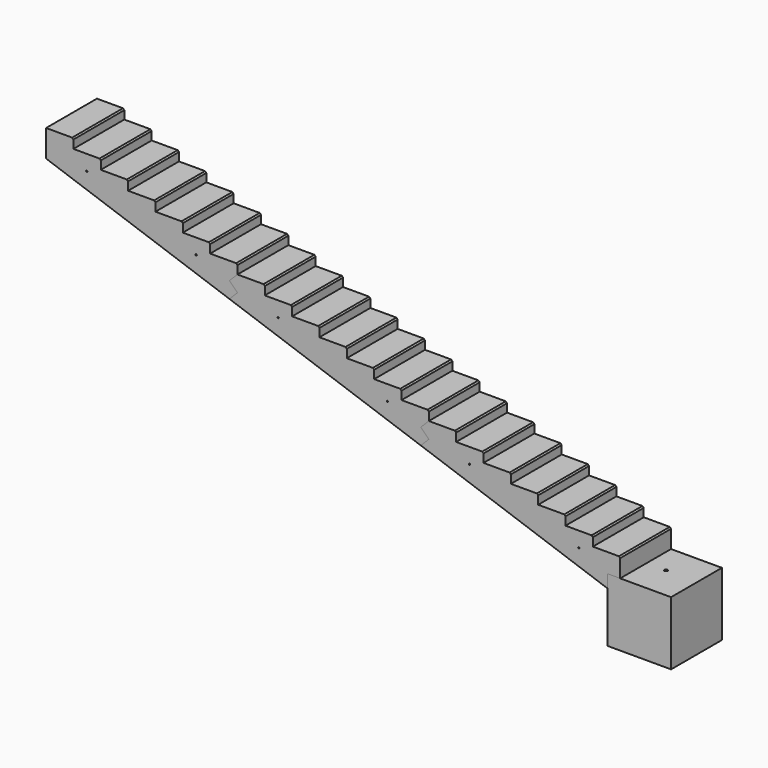
from build123d import *

# Parameters (mm, degrees)
SKETCH001_R  = 10.5
PAD_DEPTH    = 1000
SKETCH002_R  = 10.5
PAD001_DEPTH = 1000
SKETCH003_R  = 10.5
PAD002_DEPTH = 1000
SKETCH004_W  = 1000
SKETCH004_H  = 1000
PAD003_DEPTH = 1000
SKETCH005_R  = 25
POCKET_DEPTH = 50


with BuildPart() as topsection:
    # Sketch001 → Pad (new body)
    with BuildSketch(Plane.XZ):
        Polygon((0, 3000), (410, 3000), (430, 2980), (430, 2850), (840, 2850), (860, 2830), (860, 2700), (1270, 2700), (1290, 2680), (1290, 2550), (1700, 2550), (1720, 2530), (1720, 2400), (2130, 2400), (2150, 2380), (2150, 2250), (2560, 2250), (2580, 2230), (2580, 2100), (2990, 2100), (3010, 2080), (3010, 1950), (2883.496694, 1823.496694), (3010, 1696.993388), (2883.496694, 1570.490082), (0, 2576.361022), align=None)
        with Locations((640, 2610)):
            Circle(SKETCH001_R, mode=Mode.SUBTRACT)
        with Locations((2360, 2010)):
            Circle(SKETCH001_R, mode=Mode.SUBTRACT)
    extrude(amount=PAD_DEPTH)


with BuildPart() as middlesection:
    # Sketch002 → Pad001 (new body)
    with BuildSketch(Plane.XZ):
        Polygon((3010, 1950), (3420, 1950), (3440, 1930), (3440, 1800), (3850, 1800), (3870, 1780), (3870, 1650), (4280, 1650), (4300, 1630), (4300, 1500), (4710, 1500), (4730, 1480), (4730, 1350), (5140, 1350), (5160, 1330), (5160, 1200), (5570, 1200), (5590, 1180), (5590, 1050), (6000, 1050), (6020, 1030), (6020, 900), (5893.496694, 773.496694), (6020, 646.993388), (5893.496694, 520.490082), (2883.496694, 1570.490082), (3010, 1696.993388), (2883.496694, 1823.496694), align=None)
        with Locations((3650, 1560)):
            Circle(SKETCH002_R, mode=Mode.SUBTRACT)
        with Locations((5370, 960)):
            Circle(SKETCH002_R, mode=Mode.SUBTRACT)
    extrude(amount=PAD001_DEPTH)


with BuildPart() as bottomsection:
    # Sketch003 → Pad002 (new body)
    with BuildSketch(Plane.XZ):
        Polygon((6020, 900), (6430, 900), (6450, 880), (6450, 750), (6860, 750), (6880, 730), (6880, 600), (7290, 600), (7310, 580), (7310, 450), (7720, 450), (7740, 430), (7740, 300), (8150, 300), (8170, 280), (8170, 150), (8580, 150), (8600, 130), (8600, 0), (9010, 0), (9030, -20), (9030, -300), (8830, -300), (8830, -503.871536), (5893.496694, 520.490082), (6020, 646.993388), (5893.496694, 773.496694), align=None)
        with Locations((8380, -90)):
            Circle(SKETCH003_R, mode=Mode.SUBTRACT)
        with Locations((6660, 510)):
            Circle(SKETCH003_R, mode=Mode.SUBTRACT)
    extrude(amount=PAD002_DEPTH)


with BuildPart() as socketsection:
    # Sketch004 → Pad003 (new body)
    with BuildSketch(Plane.XZ):
        with Locations((9330, -800)):
            Rectangle(SKETCH004_W, SKETCH004_H)
    extrude(amount=PAD003_DEPTH)

    # Sketch005 (on DatumPlane) → Pocket (cut)
    with BuildSketch(Plane(origin=(0, 0, -300), x_dir=(-1, 0, 0), z_dir=(0, 0, 1))):
        with Locations((-9335.283547, 481.193332)):
            Circle(SKETCH005_R)
    extrude(amount=-POCKET_DEPTH, mode=Mode.SUBTRACT)


solid = Compound([topsection.part, middlesection.part, bottomsection.part, socketsection.part])
